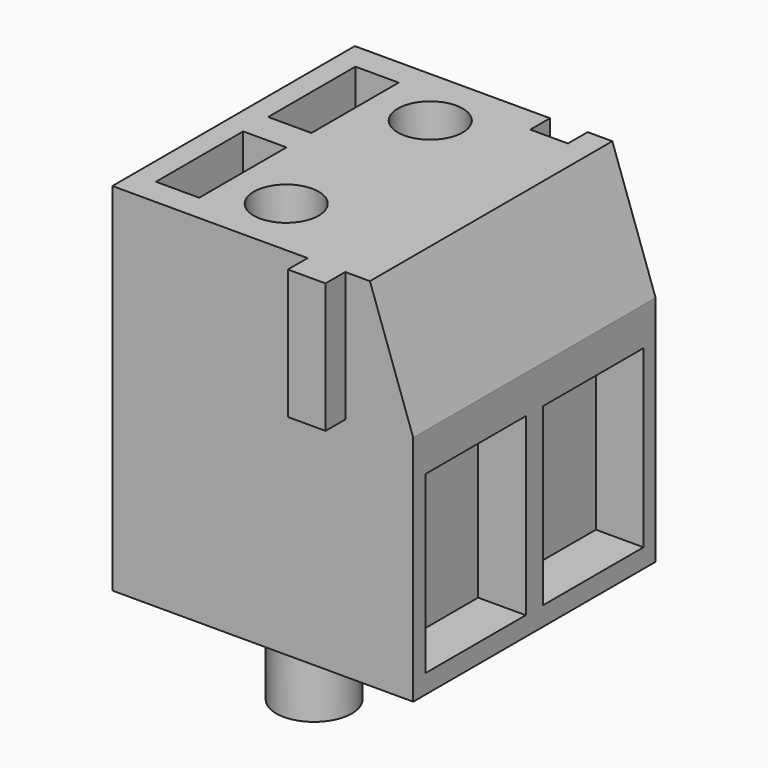
from build123d import *

# Parameters (mm, degrees)
F0_W      = 6.95
F0_H      = 7
F1_DEPTH  = 8.23
F3_DEPTH  = 7.001
F4_W      = 2.9
F4_H      = 4.05
F5_DEPTH  = 1.1
F6_W      = 0.87
F6_H      = 0.57
F7_DEPTH  = 3
F8_W      = 0.87
F8_H      = 0.57
F9_DEPTH  = 3
F10_R     = 0.75
F11_DEPTH = 0.85
F12_W     = 1
F12_H     = 2.52
F13_DEPTH = 6.25
F14_R     = 0.875
F15_DEPTH = 1.5


with BuildPart() as f1:
    # F0 (on Top) → F1 (new body)
    with BuildSketch(Plane.XY):
        Rectangle(F0_W, F0_H)
    extrude(amount=F1_DEPTH)

    # F2 (on face) → F3 (cut, through all)
    with BuildSketch(Plane.XZ.offset(3.5)):
        Polygon((3.475, 8.23), (2.475, 8.23), (3.475, 5.37), align=None)
    extrude(amount=-F3_DEPTH, mode=Mode.SUBTRACT)

    # F4 (on face) → F5 (cut)
    with BuildSketch(Plane.YZ.offset(3.475)):
        with Locations((-1.7, 2.4635673035)):
            Rectangle(F4_W, F4_H)
        with Locations((1.7, 2.4635673035)):
            Rectangle(F4_W, F4_H)
    extrude(amount=-F5_DEPTH, mode=Mode.SUBTRACT)

    # F6 (on face) → F7 (join)
    with BuildSketch(Plane.XY.offset(8.23)):
        with Locations((1.47, -3.785)):
            Rectangle(F6_W, F6_H)
    extrude(amount=-F7_DEPTH)

    # F8 (on face) → F9 (cut)
    with BuildSketch(Plane.XY.offset(8.23)):
        with Locations((1.47, 3.215)):
            Rectangle(F8_W, F8_H)
    extrude(amount=-F9_DEPTH, mode=Mode.SUBTRACT)

    # F10 (on face) → F11 (cut)
    with BuildSketch(Plane.XY.offset(8.23)):
        with Locations((-0.595, -2.08)):
            Circle(F10_R)
        with Locations((-0.595, 2.08)):
            Circle(F10_R)
    extrude(amount=-F11_DEPTH, mode=Mode.SUBTRACT)

    # F12 (on face) → F13 (cut)
    with BuildSketch(Plane.XY.offset(8.23)):
        with Locations((-2.465, -1.62)):
            Rectangle(F12_W, F12_H)
        with Locations((-2.465, 1.62)):
            Rectangle(F12_W, F12_H)
    extrude(amount=-F13_DEPTH, mode=Mode.SUBTRACT)

    # F14 (on face) → F15 (join)
    with BuildSketch(Plane(origin=(0, 0, 0), x_dir=(1, 0, 0), z_dir=(0, 0, -1))):
        with Locations((0.225, 2.3)):
            Circle(F14_R)
        with Locations((0.225, -2.3)):
            Circle(F14_R)
    extrude(amount=F15_DEPTH)


solid = f1.part
